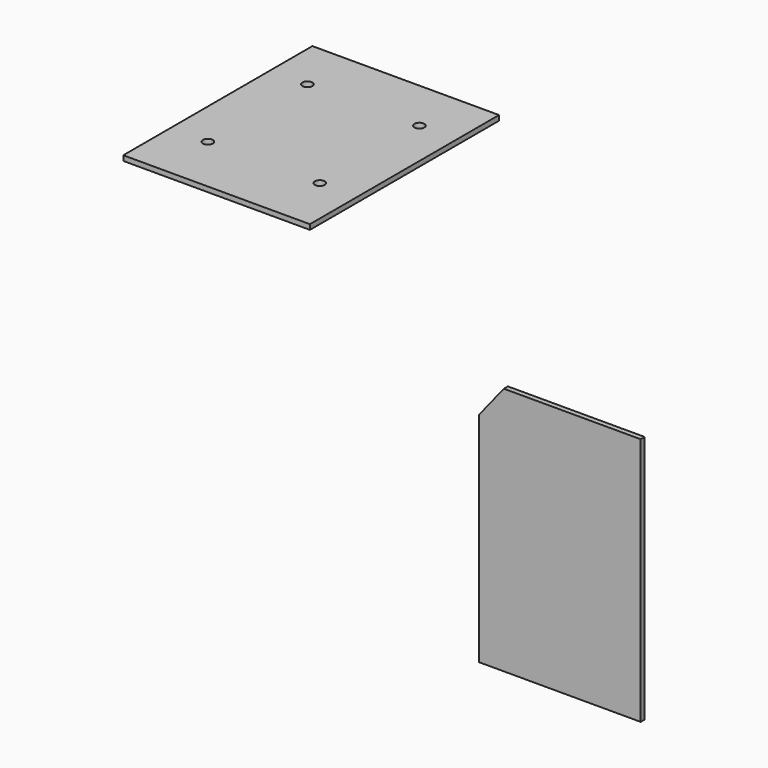
from build123d import *

# Parameters (mm, degrees)
F1_DEPTH = 8.1
F2_W     = 300
F2_H     = 380
F3_DEPTH = 8.1
F4_D     = 16


with BuildPart() as f1:
    # F0 (on Front) → F1 (new body)
    with BuildSketch(Plane.XZ):
        Polygon((220, 0), (0, 0), (-40, -50), (-40, -400), (220, -400), align=None)
    extrude(amount=F1_DEPTH)


with BuildPart() as f3:
    # F2 (on Top) → F3 (new body)
    with BuildSketch(Plane.XY):
        with Locations((-609.7375965118, 366.9008386184)):
            Rectangle(F2_W, F2_H)
    extrude(amount=F3_DEPTH)

    # F4 (through all)
    with Locations(Plane(origin=(0, 0, 0), x_dir=(1, 0, 0), z_dir=(0, 0, -1))):
        with Locations((-519.7375965118, -471.9008386184), (-699.7375965118, -471.9008386184), (-699.7375965118, -271.9008386184), (-519.7375965118, -271.9008386184)):
            Hole(F4_D / 2)


solid = Compound([f1.part, f3.part])
